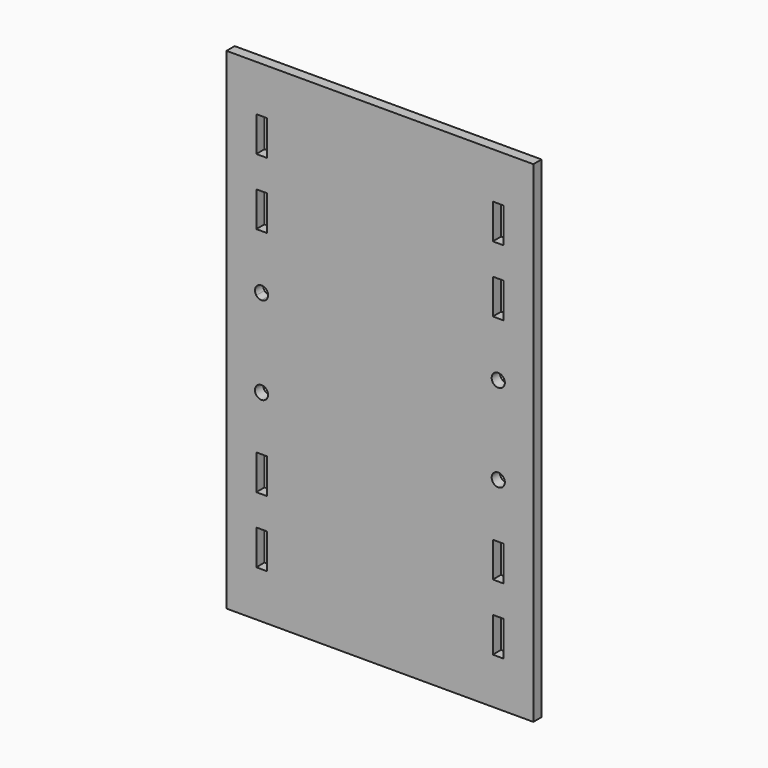
from build123d import *

# Parameters (mm, degrees)
F2_DEPTH = 2.9718
F1_W     = 3.0988
F1_H     = 10.16
F1_R     = 1.905
F3_DEPTH = 29.718


with BuildPart() as f2:
    # F0 (on Front) → F2 (new body)
    with BuildSketch(Plane.XZ):
        Polygon((44.45, 71.12), (-44.45, 71.12), (-44.45, 0), (-44.45, -71.12), (44.45, -71.12), (44.45, 0), align=None)
    extrude(amount=F2_DEPTH)

    # F1 (on Front) → F3 (cut)
    with BuildSketch(Plane.XZ):
        with BuildLine():
            ThreePointArc((-34.288667, 10.797407), (-32.941629, 11.355369), (-32.383667, 12.702407))
            ThreePointArc((-32.383667, 12.702407), (-33.686251, 14.509648), (-35.812665, 13.84541))
            Line((-35.812665, 13.84541), (-35.812665, 11.559404))
            ThreePointArc((-35.812665, 11.559404), (-35.140607, 10.998523), (-34.288667, 10.797407))
        make_face()
        with Locations((-34.263265, 52.700765)):
            Rectangle(F1_W, F1_H)
        with Locations((-34.263265, 33.544802)):
            Rectangle(F1_W, F1_H)
        with BuildLine():
            Line((-35.812665, 11.559404), (-35.812665, 13.84541))
            ThreePointArc((-35.812665, 13.84541), (-36.193667, 12.702407), (-35.812665, 11.559404))
        make_face()
        with Locations((-34.288667, -12.702407)):
            Circle(F1_R)
        with Locations((34.288667, 12.702407)):
            Circle(F1_R)
        with Locations((34.288667, -12.702407)):
            Circle(F1_R)
        with Locations((-34.263265, -33.544802)):
            Rectangle(F1_W, F1_H)
        with Locations((-34.263265, -52.700765)):
            Rectangle(F1_W, F1_H)
        with Locations((34.263265, 52.700765)):
            Rectangle(F1_W, F1_H)
        with Locations((34.263265, 33.544802)):
            Rectangle(F1_W, F1_H)
        with Locations((34.263265, -33.544802)):
            Rectangle(F1_W, F1_H)
        with Locations((34.263265, -52.700765)):
            Rectangle(F1_W, F1_H)
    extrude(amount=F3_DEPTH, mode=Mode.SUBTRACT)


solid = f2.part
